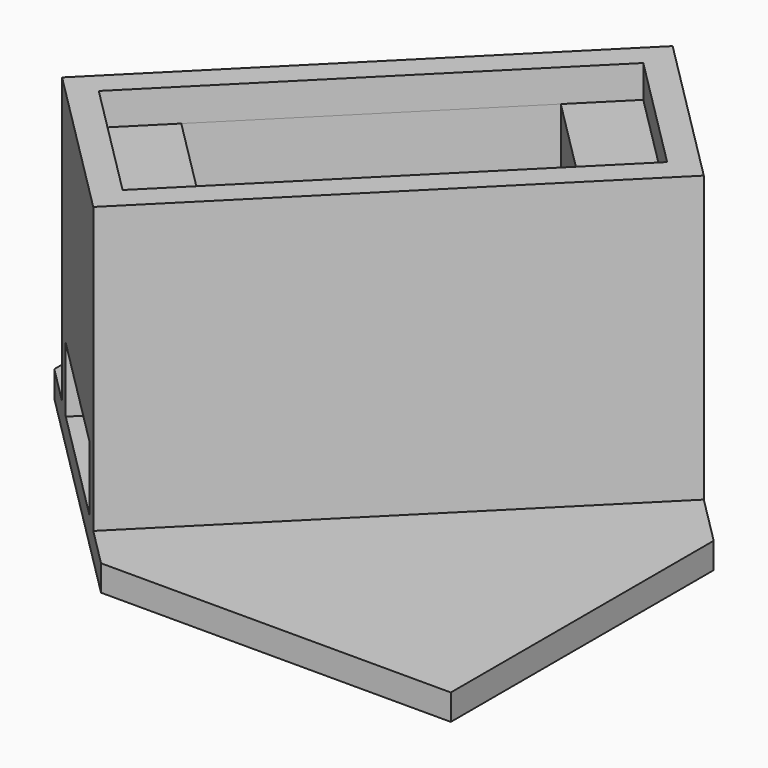
from build123d import *

# Parameters (mm, degrees)
SKETCH_W        = 100
SKETCH_H        = 140
PAD_DEPTH       = 2
PAD001_DEPTH    = 22
POCKET_DEPTH    = 2.5
POCKET001_DEPTH = 19.5
POCKET002_DEPTH = 2.001
SKETCH005_R     = 3
PAD002_DEPTH    = 2
SKETCH006_W     = 13
SKETCH006_H     = 5
POCKET003_DEPTH = 50.8979696197


with BuildPart() as part:
    # Sketch → Pad (new body)
    with BuildSketch(Plane.XY):
        with Locations((50, 70)):
            Rectangle(SKETCH_W, SKETCH_H)
    extrude(amount=PAD_DEPTH)

    # Sketch001 (on Face6 of Pad) → Pad001 (join)
    with BuildSketch(Plane.XY.offset(2)):
        Polygon((3, 15.0208152802), (29.162950904, 41.1837661841), (41.1837661842, 29.1629509039), (15.0208152802, 3), align=None)
    extrude(amount=PAD001_DEPTH)

    # Sketch002 (on Face11 of Pad001) → Pocket (cut)
    with BuildSketch(Plane.XY.offset(24)):
        Polygon((5.8284271247, 15.0208152802), (29.162950904, 38.3553390594), (38.3553390594, 29.1629509039), (15.0208152802, 5.8284271247), align=None)
    extrude(amount=-POCKET_DEPTH, mode=Mode.SUBTRACT)

    # Sketch003 (on Face16 of Pocket) → Pocket001 (cut)
    with BuildSketch(Plane.XY.offset(21.5)):
        Polygon((9.3639610307, 18.5563491861), (25.627416998, 34.8198051534), (34.8198051534, 25.6274169979), (18.5563491861, 9.3639610307), align=None)
    extrude(amount=-POCKET001_DEPTH, mode=Mode.SUBTRACT)

    # Sketch004 (on Face5 of Pocket001) → Pocket002 (cut, through all)
    with BuildSketch(Plane.XY.offset(2)):
        Polygon((-2.5188567426, 20.5396720228), (19.697648952, -1.6768336718), (-2.5188567426, -1.6768336718), align=None)
        Polygon((-7.257704, 45), (25.3467170881, 45), (45, 25.3467170881), (45, -9.128844), (123.673981, -9.128844), (123.673981, 160.15947), (-17.63995, 152.949585), align=None)
    extrude(amount=-POCKET002_DEPTH, mode=Mode.SUBTRACT)

    # Sketch005 (on Face2 of Pocket002) → Pad002 (join)
    with BuildSketch(Plane(origin=(0, 0, 0), x_dir=(1, 0, 0), z_dir=(0, 0, -1))):
        with Locations((18.1320851174, -18.1320851174)):
            Circle(SKETCH005_R)
    extrude(amount=PAD002_DEPTH)

    # Sketch006 (on Face11 of Pad002) → Pocket003 (cut, through all)
    with BuildSketch(Plane(origin=(9.0104076401, 9.0104076401, 0), x_dir=(0.7071067812, -0.7071067812, 0), z_dir=(-0.7071067812, -0.7071067812, 0))):
        with Locations((0, 4.5)):
            Rectangle(SKETCH006_W, SKETCH006_H)
    extrude(amount=-POCKET003_DEPTH, mode=Mode.SUBTRACT)


solid = part.part
